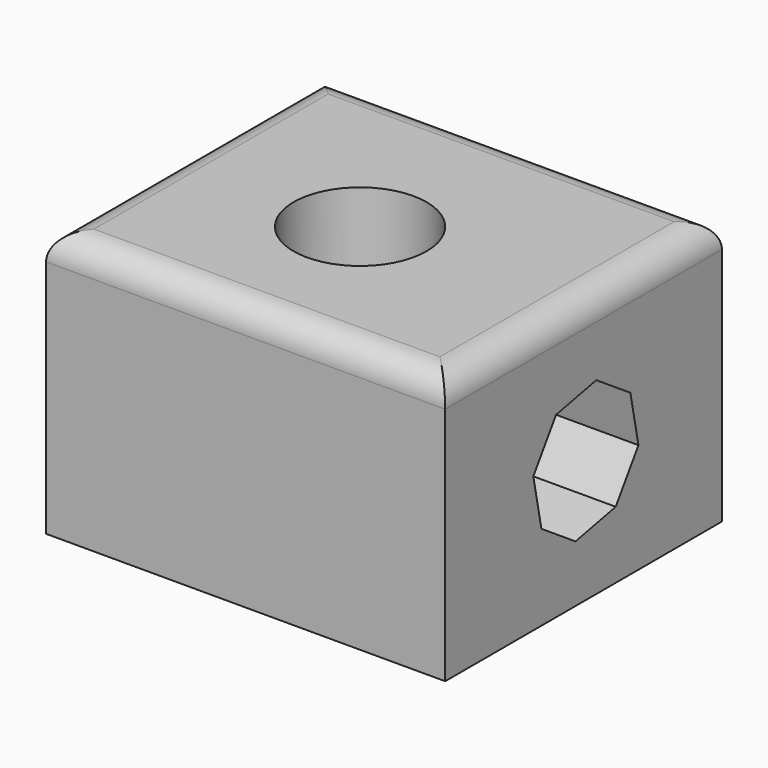
from build123d import *

# Parameters (mm, degrees)
F0_W     = 75
F0_H     = 50
F1_DEPTH = 65
F2_R     = 5
F3_R     = 12.5
F4_DEPTH = 50.001
F6_DEPTH = 75.001


with BuildPart() as f1:
    # F0 (on Front) → F1 (new body)
    with BuildSketch(Plane.XZ):
        with Locations((-0.09526, -25)):
            Rectangle(F0_W, F0_H)
    extrude(amount=F1_DEPTH)

    # F2
    f2_edges = [f1.edges().sort_by_distance(p)[0] for p in [
        (-0.09526, -65, 0),
        (-37.59526, -32.5, 0),
        (-0.09526, 0, 0),
        (37.40474, -32.5, 0),
    ]]
    fillet(f2_edges, radius=F2_R)

    # F3 (on face) → F4 (cut, through all)
    with BuildSketch(Plane.XY):
        with Locations((-2.59526, -35)):
            Circle(F3_R)
    extrude(amount=-F4_DEPTH, mode=Mode.SUBTRACT)

    # F5 (on face) → F6 (cut, through all)
    with BuildSketch(Plane(origin=(-37.59526, 0, 0), x_dir=(0, -1, 0), z_dir=(-1, 0, 0))):
        Polygon((34.392635, -39.305133), (42.407697, -33.964212), (44.2986, -24.520106), (38.957679, -16.505044), (29.513573, -14.614141), (21.498511, -19.955062), (19.607608, -29.399168), (24.948529, -37.41423), align=None)
    extrude(amount=-F6_DEPTH, mode=Mode.SUBTRACT)


solid = f1.part
